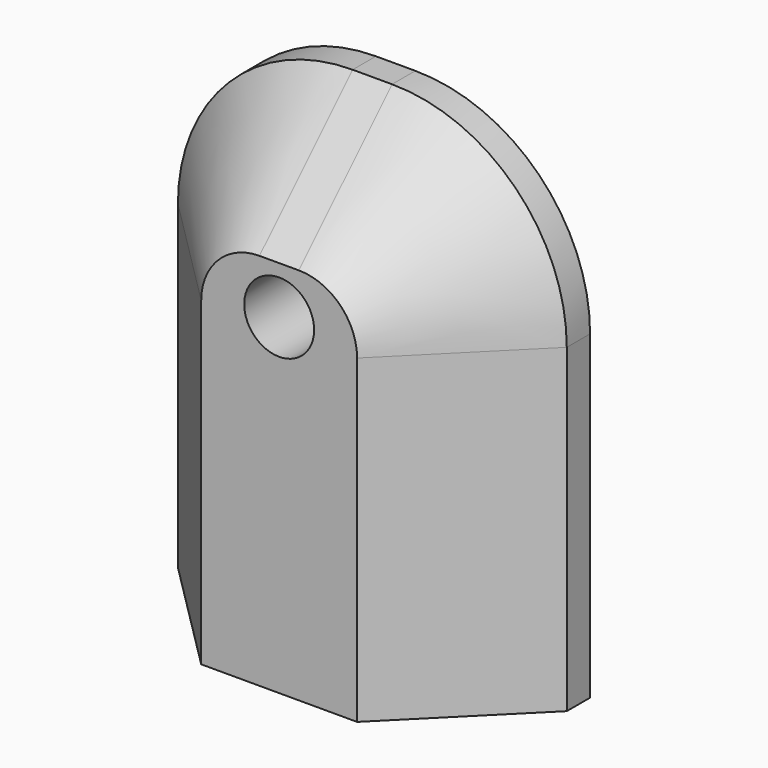
from build123d import *

# Parameters (mm, degrees)
F1_DEPTH  = 25
F2_SIZE   = 20
F3_T      = -5
F4_R      = 6.985
F5_DEPTH  = 25
F6_R      = 7.5
F7_DEPTH  = 25
F8_R      = 6
F10_DEPTH = 21
F11_R     = 3.175
F12_DEPTH = 25


with BuildPart() as f1:
    # F0 (on Front) → F1 (new body)
    with BuildSketch(Plane.XZ):
        with BuildLine():
            ThreePointArc((33.383667, 12.5), (24.59687, 33.713203), (3.383667, 42.5))
            Line((3.383667, 42.5), (-3.383667, 42.5))
            ThreePointArc((-3.383667, 42.5), (-24.59687, 33.713203), (-33.383667, 12.5))
            Line((-33.383667, 12.5), (-33.383667, -42.5))
            Line((-33.383667, -42.5), (33.383667, -42.5))
            Line((33.383667, -42.5), (33.383667, 12.5))
        make_face()
    extrude(amount=F1_DEPTH)

    # F2
    f2_edges = [f1.edges().sort_by_distance(p)[0] for p in [
        (-33.383667, -25, -15),
    ]]
    chamfer(f2_edges, length=F2_SIZE)

    # F3
    f3_openings = [f1.faces().sort_by_distance(p)[0] for p in [
        (0, 0, -2.614615),
    ]]
    offset(amount=F3_T, openings=f3_openings)

    # F4 (on face) → F5 (cut)
    with BuildSketch(Plane(origin=(0, 0, -42.5), x_dir=(1, 0, 0), z_dir=(0, 0, -1))):
        with Locations((0, 9.917389)):
            Circle(F4_R)
    extrude(amount=-F5_DEPTH, mode=Mode.SUBTRACT)

    # F6 (on face) → F7 (join, through all)
    with BuildSketch(Plane.XZ.offset(25)):
        with Locations((0, 14.338327)):
            Circle(F6_R)
    extrude(amount=-F7_DEPTH)

    # F8 (on face) → F10 (cut, through all)
    with BuildSketch(Plane.XZ.offset(25)):
        with Locations((0, 14.338327)):
            Circle(F8_R)
    extrude(amount=-F10_DEPTH, mode=Mode.SUBTRACT)

    # F11 (on face) → F12 (cut, through all)
    with BuildSketch(Plane.XZ.offset(25)):
        with Locations((0, 14.338327)):
            Circle(F11_R)
    extrude(amount=-F12_DEPTH, mode=Mode.SUBTRACT)


solid = f1.part
